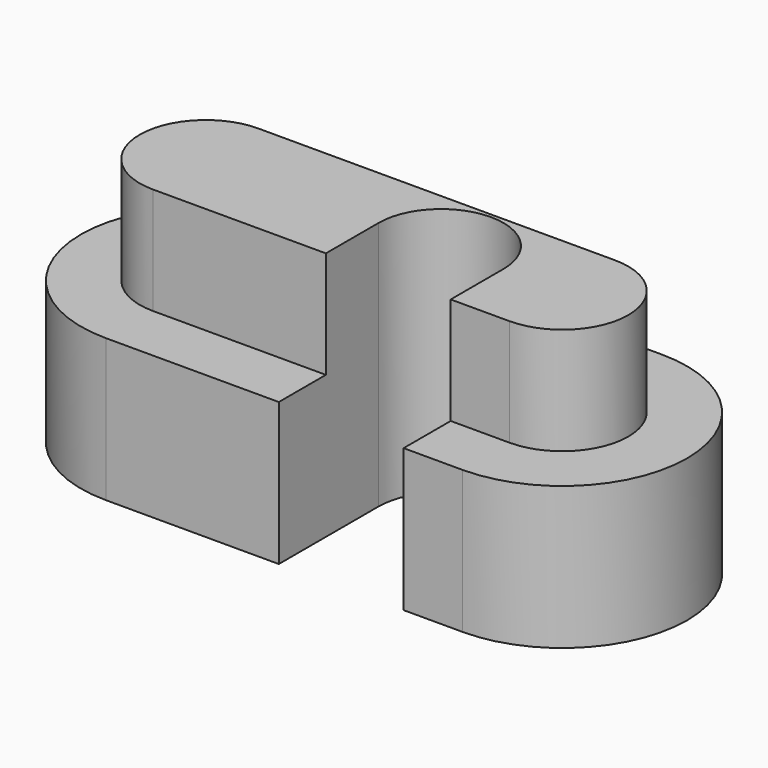
from build123d import *

# Parameters (mm, degrees)
PAD_DEPTH    = 4
PAD001_DEPTH = 3
POCKET_DEPTH = 7.001


with BuildPart() as part:
    # Sketch → Pad (new body)
    with BuildSketch(Plane.XY):
        with BuildLine():
            ThreePointArc((0, 3.5), (-3.5, 0), (0, -3.5))
            Line((0, -3.5), (10, -3.5))
            ThreePointArc((10, -3.5), (13.5, 0), (10, 3.5))
            Line((0, 3.5), (10, 3.5))
        make_face()
    extrude(amount=PAD_DEPTH)

    # Sketch001 (on Face6 of Pad) → Pad001 (join)
    with BuildSketch(Plane.XY.offset(4)):
        with BuildLine():
            ThreePointArc((0, 1.85), (-1.85, 0), (0, -1.85))
            Line((0, -1.85), (10, -1.85))
            ThreePointArc((10, -1.85), (11.85, 0), (10, 1.85))
            Line((0, 1.85), (10, 1.85))
        make_face()
    extrude(amount=PAD001_DEPTH)

    # Sketch002 (on Face11 of Pad001) → Pocket (cut, through all)
    with BuildSketch(Plane.XY.offset(7)):
        with BuildLine():
            ThreePointArc((8.35, 0), (6.6, 1.75), (4.85, 0))
            Line((4.85, -3.5), (4.85, 0))
            Line((8.35, -3.5), (4.85, -3.5))
            Line((8.35, 0), (8.35, -3.5))
        make_face()
    extrude(amount=-POCKET_DEPTH, mode=Mode.SUBTRACT)


solid = part.part
